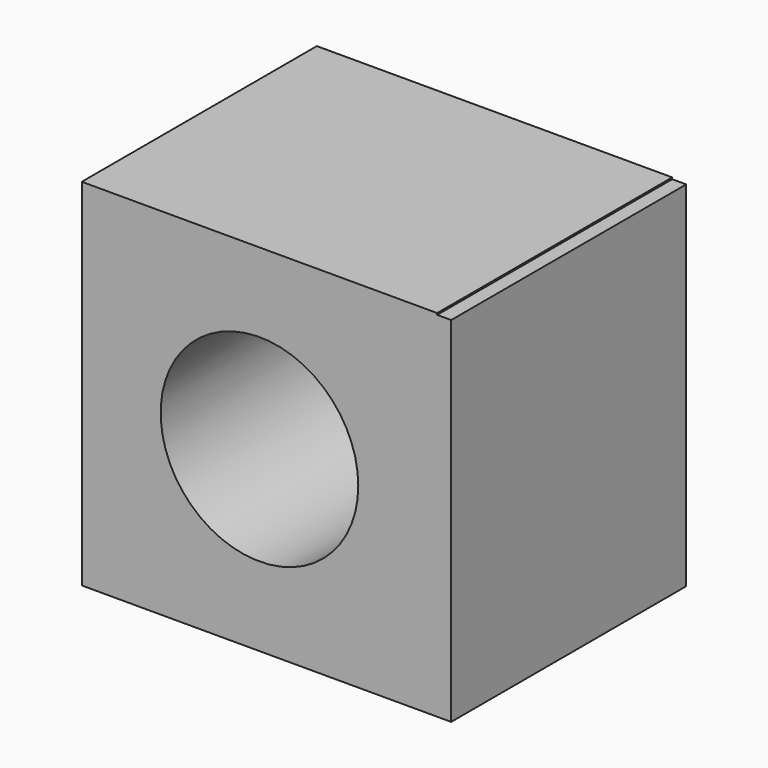
from build123d import *

# Parameters (mm, degrees)
F0_R     = 14.121323
F1_DEPTH = 7
F0_W     = 2
F0_H     = 50.568709
F2_DEPTH = 42


with BuildPart() as f1:
    # F0 (on Front) → F1 (new body)
    with BuildSketch(Plane.XZ):
        Polygon((25.4, 25.4), (-25.4, 25.4), (-25.4, -25.4), (25.4, -25.4), (25.4, 25.168709), align=None)
        Circle(F0_R, mode=Mode.SUBTRACT)
    extrude(amount=F1_DEPTH)

    # F0 (on Front) → F2 (join)
    with BuildSketch(Plane.XZ):
        Polygon((25.4, 25.4), (-25.4, 25.4), (-25.4, -25.4), (25.4, -25.4), (25.4, 25.168709), align=None)
        Circle(F0_R, mode=Mode.SUBTRACT)
        with Locations((26.4, -0.115645)):
            Rectangle(F0_W, F0_H)
    extrude(amount=F2_DEPTH)


solid = f1.part
